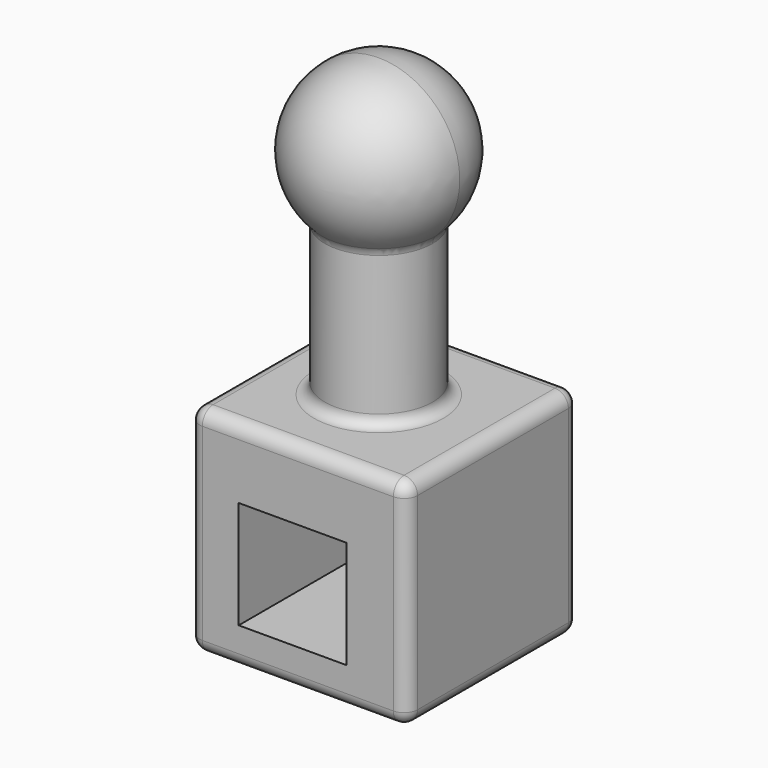
from build123d import *

# Parameters (mm, degrees)
F0_W     = 102.7684
F0_H     = 101.6
F1_DEPTH = 101.6
F2_R     = 25.4
F3_DEPTH = 101.6
F6_W     = 50.8
F6_H     = 50.8
F7_DEPTH = 101.6
F8_R     = 6.35
F9_R     = 5.08


with BuildPart() as f1:
    # F0 (on Top) → F1 (new body)
    with BuildSketch(Plane.XY):
        with Locations((2.4761343375, 0)):
            Rectangle(F0_W, F0_H)
    extrude(amount=F1_DEPTH)

    # F2 (on face) → F3 (join)
    with BuildSketch(Plane.XY.offset(101.6)):
        Circle(F2_R)
    extrude(amount=F3_DEPTH)

    # F4 (on face) → F5 (revolve)
    with BuildSketch(Plane.XY.offset(203.2)):
        with BuildLine():
            ThreePointArc((0, -38.1876719344), (27.0027617826, -27.0027617826), (38.1876719344, 0))
            ThreePointArc((38.1876719344, 0), (27.0027617826, 27.0027617826), (0, 38.1876719344))
            Line((0, 38.1876719344), (0, 25.4))
            ThreePointArc((0, 25.4), (17.9605122421, 17.9605122421), (25.4, 0))
            ThreePointArc((25.4, 0), (17.9605122421, -17.9605122421), (0, -25.4))
            Line((0, -25.4), (0, -38.1876719344))
        make_face()
    revolve(axis=Axis((0, -1.256869865, 203.2), (0, -1, 0)))

    # F6 (on face) → F7 (cut)
    with BuildSketch(Plane.XZ.offset(50.8)):
        with Locations((0, 43.5710921884)):
            Rectangle(F6_W, F6_H)
    extrude(amount=-F7_DEPTH, mode=Mode.SUBTRACT)

    # F8
    f8_edges = [f1.edges().sort_by_distance(p)[0] for p in [
        (53.860334, 0, 101.6),
        (53.860334, -50.8, 50.8),
        (53.860334, 50.8, 50.8),
        (53.860334, 0, 0),
        (2.476134, -50.8, 101.6),
        (-48.908066, -50.8, 50.8),
        (-48.908066, 0, 101.6),
        (2.476134, 50.8, 101.6),
        (2.476134, -50.8, 0),
        (-48.908066, 0, 0),
        (2.476134, 50.8, 0),
    ]]
    fillet(f8_edges, radius=F8_R)

    # F9
    f9_edges = [f1.edges().sort_by_distance(p)[0] for p in [
        (-25.4, 0, 101.6),
        (-25.4, 0, 174.68442),
    ]]
    fillet(f9_edges, radius=F9_R)


solid = f1.part
